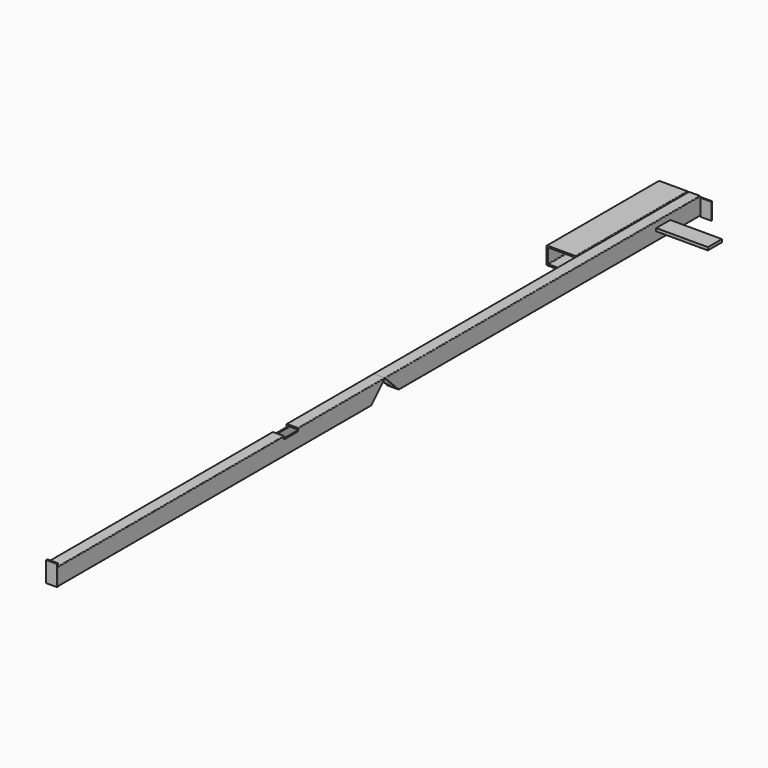
from build123d import *

# Parameters (mm, degrees)
F1_W      = 254
F1_H      = 152.4
F1_W_2    = 228.6
F1_H_2    = 127
F3_DEPTH  = 1219.2
F0_W      = 101.6
F0_H      = 152.4
F0_W_2    = 76.2
F0_H_2    = 127
F4_DEPTH  = 3429
F2_W      = 95.25
F2_H      = 146.05
F5_DEPTH  = 9.525
F6_DEPTH  = 3556
F9_DEPTH  = 361.951
F10_DEPTH = 361.951
F11_W     = 95.25
F11_H     = 209.55
F11_W_2   = 76.2
F11_H_2   = 179.6051224214
F12_DEPTH = 9.525
F13_W     = 95.25
F13_H     = 152.4
F13_W_2   = 76.2
F13_H_2   = 127
F13_H_3   = 25.4
F14_DEPTH = 12.7
F15_R     = 5.08
F15_2_R   = 5.08
F15_3_R   = 5.08
F16_W     = 711.2
F16_H     = 152.4
F17_DEPTH = 25.4
F18_W     = 246.9795793295
F18_H     = 152.4
F19_DEPTH = 25.4


with BuildPart() as f3:
    # F1 (on Front) → F3 (new body)
    with BuildSketch(Plane.XZ):
        with Locations((-184.15, -0.0468501925)):
            Rectangle(F1_W, F1_H)
        with Locations((-184.15, -0.0468501925)):
            Rectangle(F1_W_2, F1_H_2, mode=Mode.SUBTRACT)
    extrude(amount=F3_DEPTH)

    # F15#3
    f15_3_edges = [f3.edges().sort_by_distance(p)[0] for p in [
        (-69.85, -609.6, 63.45315),
        (-69.85, -609.6, -63.54685),
        (-298.45, -609.6, -63.54685),
        (-298.45, -609.6, 63.45315),
        (-57.15, -609.6, -76.24685),
        (-311.15, -609.6, -76.24685),
        (-311.15, -609.6, 76.15315),
        (-57.15, -609.6, 76.15315),
    ]]
    fillet(f15_3_edges, radius=F15_3_R)


with BuildPart() as f4:
    # F0 (on Front) → F4 (new body)
    with BuildSketch(Plane.XZ):
        Rectangle(F0_W, F0_H)
        Rectangle(F0_W_2, F0_H_2, mode=Mode.SUBTRACT)
    extrude(amount=F4_DEPTH)


with BuildPart() as f5:
    # F2 (on Front) → F5 (new body)
    with BuildSketch(Plane.XZ):
        with Locations((107.0601179898, -3.458078301)):
            Rectangle(F2_W, F2_H)
    extrude(amount=F5_DEPTH)


with BuildPart() as f6:
    # F6 (new): a face of the model
    f6_faces = [f4.part.faces().sort_by_distance(p)[0] for p in [
        (0, -3429, -74.3683799521),
    ]]
    extrude(f6_faces, amount=F6_DEPTH)

    # F7 (on face) → F10 (cut, through all)
    with BuildSketch(Plane.YZ.offset(50.8)):
        Polygon((-3429, -76.2), (-3429, 76.2), (-3581.4, -76.2), align=None)
    extrude(amount=-F10_DEPTH, mode=Mode.SUBTRACT)

    # F15#2
    f15_2_edges = [f6.edges().sort_by_distance(p)[0] for p in [
        (50.8, -5283.2, -76.2),
        (-50.8, -5283.2, -76.2),
        (50.8, -5207, 76.2),
        (-50.8, -5207, 76.2),
        (-38.1, -5213.35, 63.5),
        (38.1, -5213.35, 63.5),
        (38.1, -5276.85, -63.5),
        (-38.1, -5276.85, -63.5),
    ]]
    fillet(f15_2_edges, radius=F15_2_R)

    # F18 (on face) → F19 (cut)
    with BuildSketch(Plane.XY.offset(76.2)):
        with Locations((-5.5087581277, -4450.08)):
            Rectangle(F18_W, F18_H)
    extrude(amount=-F19_DEPTH, mode=Mode.SUBTRACT)


with BuildPart() as f4_1:
    add(f4.part)

    # F8 (on face) → F9 (cut, through all)
    with BuildSketch(Plane.YZ.offset(50.8)):
        Polygon((-3276.6, -76.2), (-3429, 76.2), (-3429, -76.2), align=None)
    extrude(amount=-F9_DEPTH, mode=Mode.SUBTRACT)

    # F15
    f15_edges = [f4_1.edges().sort_by_distance(p)[0] for p in [
        (-50.8, -1714.5, 76.2),
        (-50.8, -1638.3, -76.2),
        (50.8, -1638.3, -76.2),
        (50.8, -1714.5, 76.2),
        (-38.1, -1708.15, 63.5),
        (38.1, -1708.15, 63.5),
        (38.1, -1644.65, -63.5),
        (-38.1, -1644.65, -63.5),
    ]]
    fillet(f15_edges, radius=F15_R)


with BuildPart() as f12:
    # F11 (on face) → F12 (new body)
    with BuildSketch(Plane(origin=(0, -1752.6, 1752.6), x_dir=(-1, 0, 0), z_dir=(0, 0.7071067812, -0.7071067812))):
        with Locations((3.175, -2475.5626159623)):
            Rectangle(F11_W, F11_H)
        with Locations((0, -2478.5506894151)):
            Rectangle(F11_W_2, F11_H_2, mode=Mode.SUBTRACT)
        with Locations((0, -2478.5506894151)):
            Rectangle(F11_W_2, F11_H_2)
    extrude(amount=F12_DEPTH)


with BuildPart() as f14:
    # F13 (on face) → F14 (new body)
    with BuildSketch(Plane.XZ.offset(6985)):
        with Locations((3.175, 0)):
            Rectangle(F13_W, F13_H)
        Rectangle(F13_W_2, F13_H_2, mode=Mode.SUBTRACT)
        Rectangle(F13_W_2, F13_H_2)
        with Locations((3.175, 88.9)):
            Rectangle(F13_W, F13_H_3)
    extrude(amount=F14_DEPTH)


with BuildPart() as f17:
    # F16 (on Top) → F17 (new body)
    with BuildSketch(Plane.XY):
        with Locations((144.9249171257, -403.1442487717)):
            Rectangle(F16_W, F16_H)
    extrude(amount=F17_DEPTH)


solid = Compound([f3.part, f5.part, f6.part, f4_1.part, f12.part, f14.part, f17.part])
